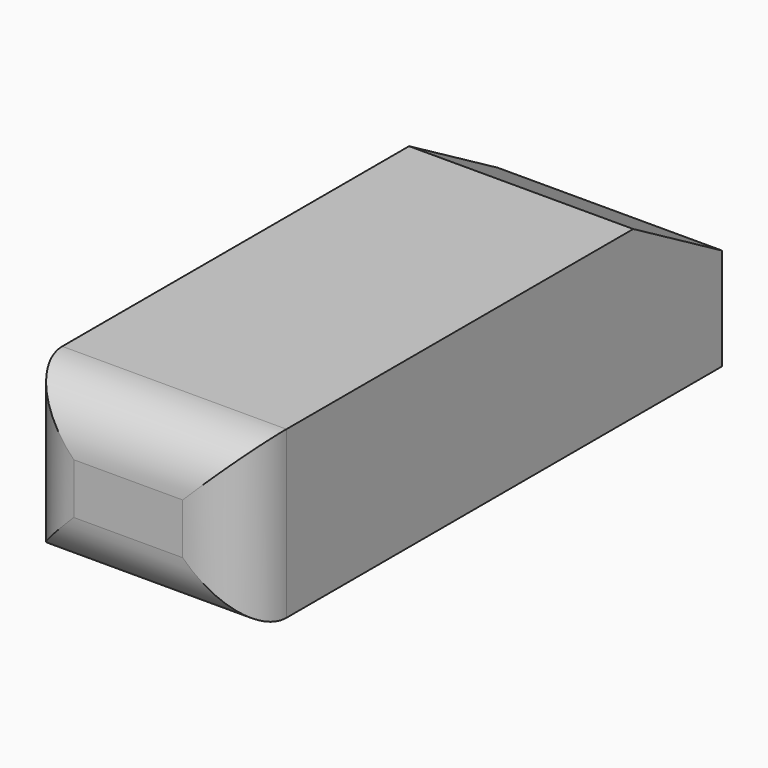
from build123d import *

# Parameters (mm, degrees)
F2_DEPTH = 168.75
F3_R     = 86.75


with BuildPart() as f2:
    # F1 (on Right) → F2 (new body, symmetric)
    with BuildSketch(Plane.YZ):
        Polygon((0, 293.4), (0, 43.4), (906.2, 43.4), (906.2, 197.05), (739.3169046907, 293.4), align=None)
    extrude(amount=F2_DEPTH, both=True)

    # F3
    f3_edges = [f2.edges().sort_by_distance(p)[0] for p in [
        (0, 0, 293.4),
        (168.75, 0, 168.4),
        (-168.75, 0, 168.4),
        (0, 0, 43.4),
    ]]
    fillet(f3_edges, radius=F3_R)


solid = f2.part
